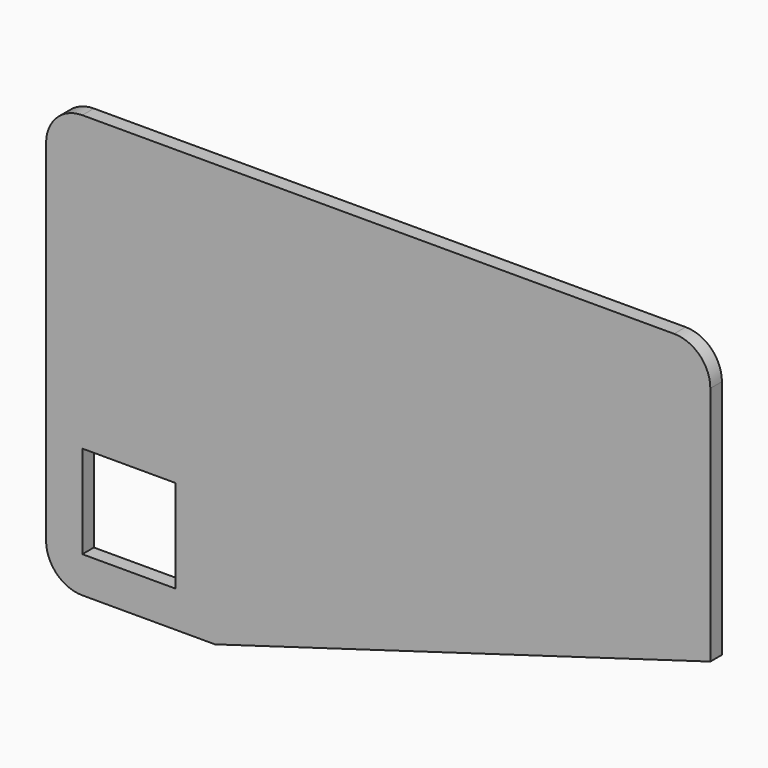
from build123d import *

# Parameters (mm, degrees)
F0_W     = 77
F0_H     = 77
F1_DEPTH = 12


with BuildPart() as f1:
    # F0 (on Front) → F1 (new body)
    with BuildSketch(Plane.XZ):
        with BuildLine():
            ThreePointArc((0, 30), (8.786797, 8.786797), (30, 0))
            Line((30, 0), (139.86896, 0))
            Line((139.86896, 0), (550, 120.816529))
            Line((550, 120.816529), (550, 320))
            ThreePointArc((550, 320), (541.213203, 341.213203), (520, 350))
            Line((520, 350), (30, 350))
            ThreePointArc((30, 350), (8.786797, 341.213203), (0, 320))
            Line((0, 320), (0, 30))
        make_face()
        with Locations((68.5, 68.5)):
            Rectangle(F0_W, F0_H, mode=Mode.SUBTRACT)
    extrude(amount=F1_DEPTH)


solid = f1.part
